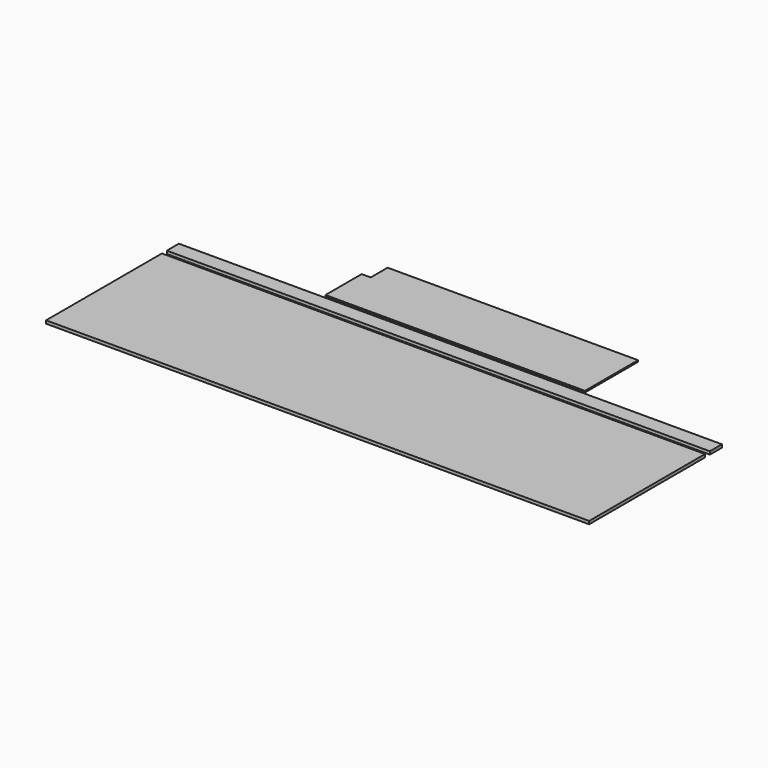
from build123d import *

# Parameters (mm, degrees)
F0_W     = 2286
F0_H     = 609.6
F1_DEPTH = 12.7
F2_W     = 2286
F2_H     = 63.5
F3_DEPTH = 12.7
F5_DEPTH = 6.35


with BuildPart() as f1:
    # F0 (on Top) → F1 (new body)
    with BuildSketch(Plane.XY):
        Rectangle(F0_W, F0_H)
    extrude(amount=F1_DEPTH)


with BuildPart() as f3:
    # F2 (on Top) → F3 (new body, through all)
    with BuildSketch(Plane.XY):
        with Locations((0, 361.95)):
            Rectangle(F2_W, F2_H)
    extrude(amount=F3_DEPTH)


with BuildPart() as f5:
    # F4 (on Top) → F5 (new body)
    with BuildSketch(Plane.XY):
        Polygon((546.1, 419.1), (546.1, 698.5), (-508, 698.5), (-508, 609.6), (-546.1, 609.6), (-546.1, 419.1), align=None)
    extrude(amount=F5_DEPTH)


solid = Compound([f1.part, f3.part, f5.part])
